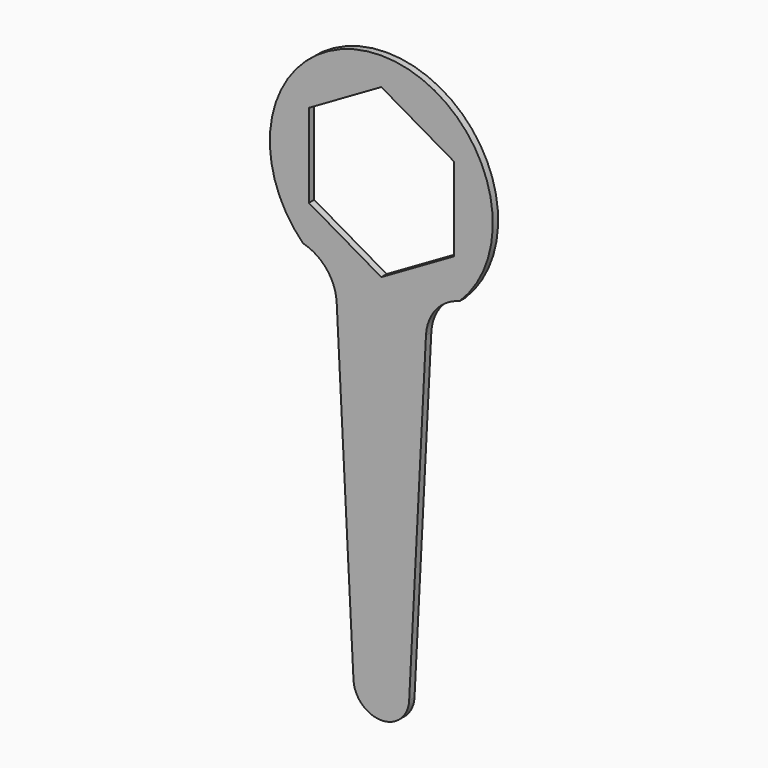
from build123d import *

# Parameters (mm, degrees)
F1_DEPTH = 3
F3_DEPTH = 25


with BuildPart() as f1:
    # F0 (on Front) → F1 (new body)
    with BuildSketch(Plane.XZ):
        with BuildLine():
            ThreePointArc((20.026396, -53.972799), (24.540831, -42.310868), (35.099057, -35.609777))
            ThreePointArc((35.099057, -35.609777), (0, 50), (-35.099057, -35.609777))
            ThreePointArc((-35.099057, -35.609777), (-24.540831, -42.310868), (-20.026396, -53.972799))
            Line((-20.026396, -53.972799), (-12.483503, -200.642001))
            ThreePointArc((-12.483503, -200.642001), (0, -212.5), (12.483503, -200.642001))
            Line((12.483503, -200.642001), (20.026396, -53.972799))
        make_face()
    extrude(amount=F1_DEPTH)

    # F2 (on face) → F3 (cut)
    with BuildSketch(Plane.XZ.offset(3)):
        Polygon((-32.5, 18.763884), (-32.5, -18.763884), (0, -37.527767), (32.5, -18.763884), (32.5, 18.763884), (0, 37.527767), align=None)
    extrude(amount=-F3_DEPTH, mode=Mode.SUBTRACT)


solid = f1.part
